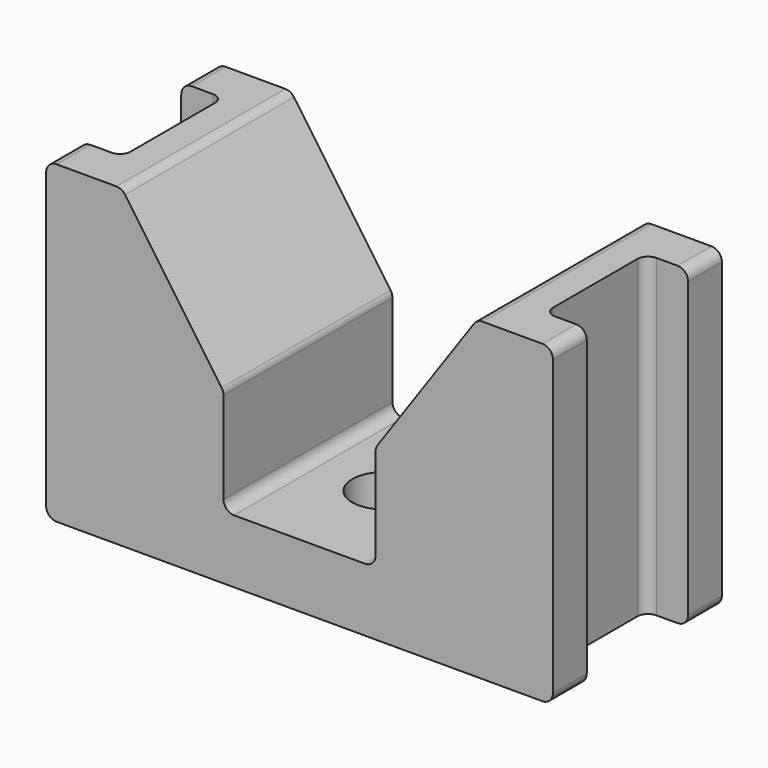
from build123d import *

# Parameters (mm, degrees)
F1_DEPTH = 10
F2_W     = 6
F2_H     = 14.9
F3_DEPTH = 2
F5_R     = 0.5
F7_D     = 3


with BuildPart() as f1:
    # F0 (on Front) → F1 (new body)
    with BuildSketch(Plane.XZ):
        Polygon((3.6, 0), (0, 0), (0, -3), (12, -3), (12, 11.9), (8.4125, 11.9), (3.6, 5), align=None)
    extrude(amount=-F1_DEPTH)

    # F2 (on face) → F3 (cut)
    with BuildSketch(Plane.YZ.offset(12)):
        with Locations((5, 4.45)):
            Rectangle(F2_W, F2_H)
    extrude(amount=-F3_DEPTH, mode=Mode.SUBTRACT)

    # F4: F1 across plane


with BuildPart() as f1_1:
    add(f1.part)
    add(f1.part.mirror(Plane.YZ))

    # F5
    f5_edges = [f1_1.edges().sort_by_distance(p)[0] for p in [
        (-8.4125, 5, 11.9),
        (-12, 1, 11.9),
        (-12, 9, 11.9),
        (-3.6, 5, 5),
        (-3.6, 5, 0),
        (3.6, 5, 0),
        (3.6, 5, 5),
        (8.4125, 5, 11.9),
        (12, 9, 11.9),
        (12, 1, 11.9),
        (12, 9, -3),
        (12, 1, -3),
        (-12, 1, -3),
        (-12, 9, -3),
        (10, 8, 4.45),
        (10, 2, 4.45),
        (-10, 2, 4.45),
        (-10, 8, 4.45),
    ]]
    fillet(f5_edges, radius=F5_R)

    # F7 (through all)
    with Locations(Plane(origin=(0, 0, -3), x_dir=(1, 0, 0), z_dir=(0, 0, -1))):
        with Locations((0, -5)):
            Hole(F7_D / 2)


solid = f1_1.part
